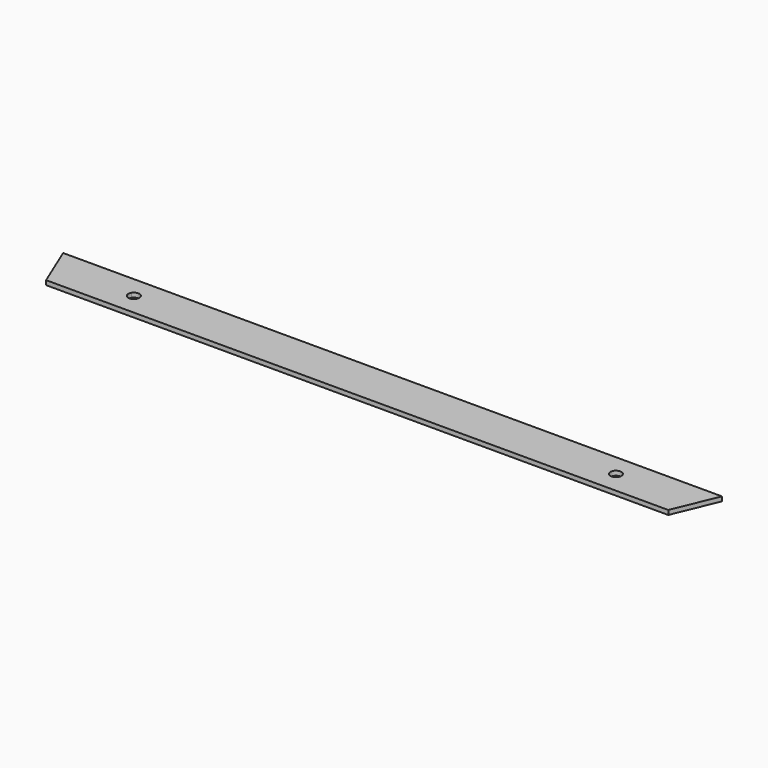
from build123d import *

# Parameters (mm, degrees)
F0_W     = 378.7394
F0_H     = 25.4
F1_DEPTH = 2.54
F3_DEPTH = 2.541
F5_DEPTH = 2.541


with BuildPart() as f1:
    # F0 (on Top) → F1 (new body)
    with BuildSketch(Plane.XY):
        with Locations((42.002925, -34.459395)):
            Rectangle(F0_W, F0_H)
    extrude(amount=F1_DEPTH)

    # F2 (on face) → F3 (cut, through all)
    with BuildSketch(Plane.XY.offset(2.54)):
        Polygon((-136.846095, -47.159395), (-147.366775, -21.759395), (-147.366775, -47.159395), align=None)
        Polygon((231.372625, -47.159395), (231.372625, -21.759395), (220.851945, -47.159395), align=None)
    extrude(amount=-F3_DEPTH, mode=Mode.SUBTRACT)

    # F4 (on face) → F5 (cut, through all)
    with BuildSketch(Plane.XY.offset(2.54)):
        with BuildLine():
            ThreePointArc((-99.312349, -32.86489), (-97.392435, -37.52516), (-93.391775, -34.459395))
            ThreePointArc((-93.391775, -34.459395), (-95.741115, -31.393631), (-99.312349, -32.86489))
        make_face()
        with BuildLine():
            ThreePointArc((177.397625, -34.459395), (180.572625, -37.634395), (183.747625, -34.459395))
            ThreePointArc((183.747625, -34.459395), (180.572625, -31.284395), (177.397625, -34.459395))
        make_face()
    extrude(amount=-F5_DEPTH, mode=Mode.SUBTRACT)


solid = f1.part
